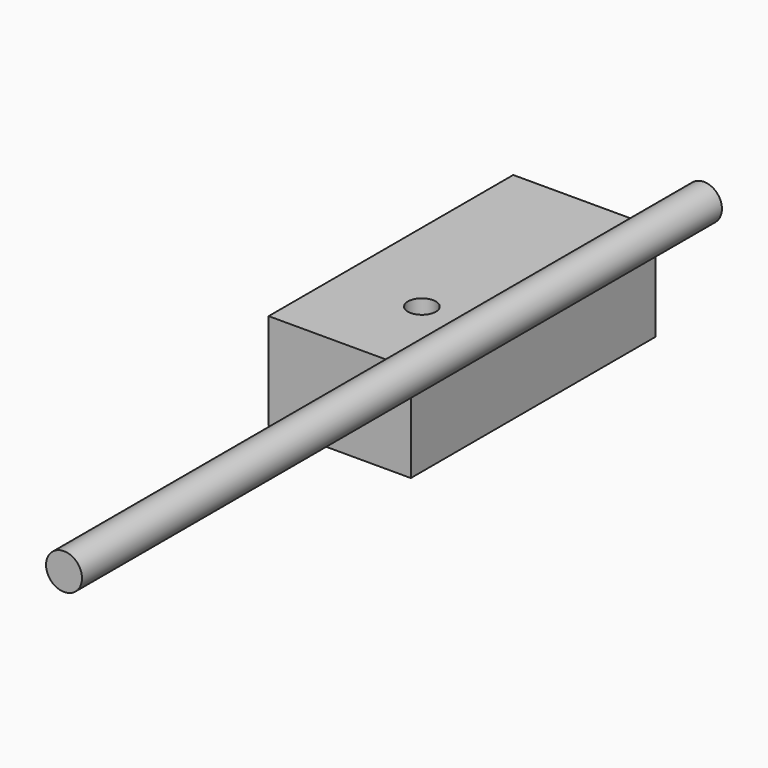
from build123d import *

# Parameters (mm, degrees)
F0_W     = 101.842158
F0_H     = 69.013916
F1_DEPTH = 219
F2_R     = 12.880539
F3_DEPTH = 573
F4_R     = 10
F5_DEPTH = 69.014916


with BuildPart() as f1:
    # F0 (on Front) → F1 (new body)
    with BuildSketch(Plane.XZ):
        with Locations((7.087916, -0.186525)):
            Rectangle(F0_W, F0_H)
    extrude(amount=F1_DEPTH)

    # F4 (on face) → F5 (cut, through all)
    with BuildSketch(Plane.XY.offset(34.320433)):
        with Locations((15.848011, -156.407341)):
            Circle(F4_R)
    extrude(amount=-F5_DEPTH, mode=Mode.SUBTRACT)


with BuildPart() as f3:
    # F2 (on Front) → F3 (new body)
    with BuildSketch(Plane.XZ):
        with Locations((92.775121, 61.558418)):
            Circle(F2_R)
    extrude(amount=F3_DEPTH)


solid = Compound([f1.part, f3.part])
